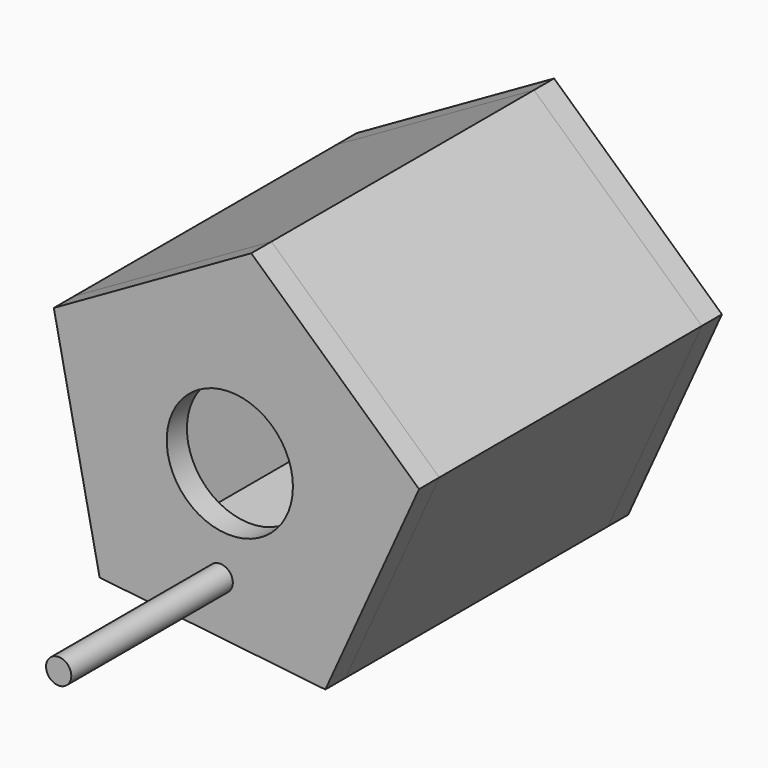
from build123d import *

# Parameters (mm, degrees)
F0_R     = 31.75
F1_DEPTH = 12.7
F3_DEPTH = 165.1
F5_DEPTH = 12.7
F6_R     = 6.35
F7_DEPTH = 101.6


with BuildPart() as f1:
    # F0 (on Front) → F1 (new body)
    with BuildSketch(Plane.XZ):
        Polygon((10.784969, 96.629386), (-88.567268, 40.117238), (-65.522551, -71.835569), (48.072104, -84.514061), (95.232746, 19.603007), align=None)
        Circle(F0_R, mode=Mode.SUBTRACT)
    extrude(amount=F1_DEPTH)


with BuildPart() as f3:
    # F2 (on face) → F3 (new body)
    with BuildSketch(Plane(origin=(0, 0, 0), x_dir=(-1, 0, 0), z_dir=(0, 1, 0))):
        Polygon((-10.784969, 96.629386), (-95.232746, 19.603007), (-48.072104, -84.514061), (65.522551, -71.835569), (88.567268, 40.117238), align=None)
        Polygon((-79.857048, 16.438025), (-9.043694, 81.028195), (74.267738, 33.640154), (54.94368, -60.237437), (-40.310676, -70.868937), align=None, mode=Mode.SUBTRACT)
    extrude(amount=F3_DEPTH)


with BuildPart() as f5:
    # F4 (on face) → F5 (new body)
    with BuildSketch(Plane(origin=(0, 165.1, 0), x_dir=(-1, 0, 0), z_dir=(0, 1, 0))):
        Polygon((-10.784969, 96.629386), (-95.232746, 19.603007), (-48.072104, -84.514061), (65.522551, -71.835569), (88.567268, 40.117238), align=None)
    extrude(amount=F5_DEPTH)


with BuildPart() as f7:
    # F6 (on face) → F7 (new body)
    with BuildSketch(Plane.XZ.offset(12.7)):
        with Locations((-4.842842, -52.32219)):
            Circle(F6_R)
    extrude(amount=F7_DEPTH)


solid = Compound([f1.part, f3.part, f5.part, f7.part])
